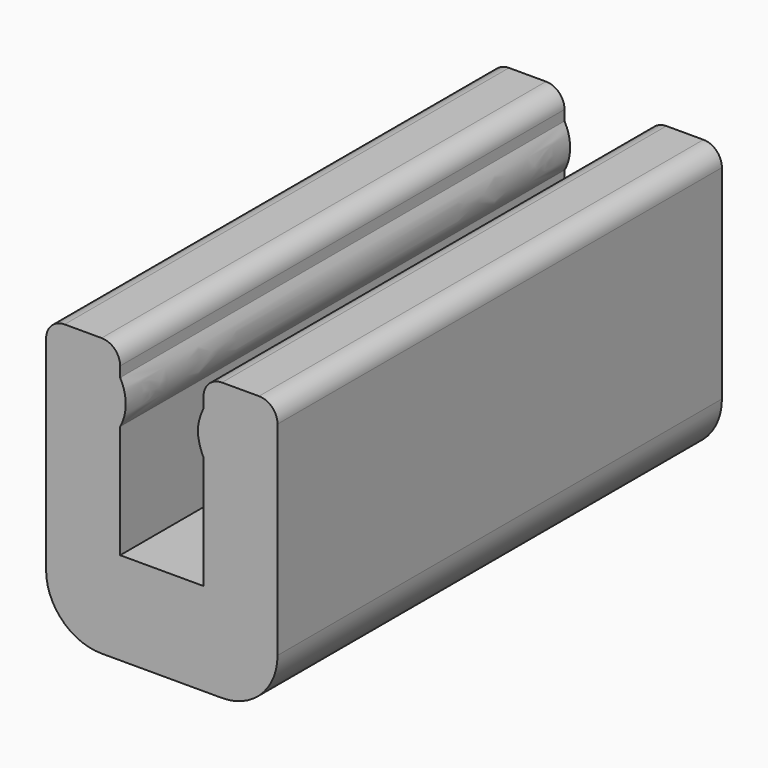
from build123d import *

# Parameters (mm, degrees)
F0_W     = 4.5
F0_H     = 30
F0_W_2   = 4
F1_DEPTH = 5
F2_DEPTH = 10
F3_R     = 3
F4_R     = 1
F6_DEPTH = 30


with BuildPart() as f1:
    # F0 (on Top) → F1 (new body)
    with BuildSketch(Plane.XY):
        with Locations((-4.7856509686, -8.5439818352)):
            Rectangle(F0_W, F0_H)
        with Locations((-9.0356509686, -8.5439818352)):
            Rectangle(F0_W_2, F0_H)
        with Locations((-0.5356509686, -8.5439818352)):
            Rectangle(F0_W_2, F0_H)
    extrude(amount=-F1_DEPTH)

    # F0 (on Top) → F2 (join)
    with BuildSketch(Plane.XY):
        with Locations((-9.0356509686, -8.5439818352)):
            Rectangle(F0_W_2, F0_H)
        with Locations((-0.5356509686, -8.5439818352)):
            Rectangle(F0_W_2, F0_H)
    extrude(amount=F2_DEPTH)

    # F3
    f3_edges = [f1.edges().sort_by_distance(p)[0] for p in [
        (1.464349, -8.543982, -5),
        (-11.035651, -8.543982, -5),
    ]]
    fillet(f3_edges, radius=F3_R)

    # F4
    f4_edges = [f1.edges().sort_by_distance(p)[0] for p in [
        (-7.035651, -8.543982, 10),
        (-11.035651, -8.543982, 10),
        (1.464349, -8.543982, 10),
        (-2.535651, -8.543982, 10),
    ]]
    fillet(f4_edges, radius=F4_R)

    # F5 (on face) → F6 (join)
    with BuildSketch(Plane.XZ.offset(23.5439818352)):
        with BuildLine():
            Line((-2.5356509686, 6.1144679785), (-2.5356509686, 8.4431599826))
            add(Edge.make_bspline(
                [(-2.5356509686, 8.4431599826), (-2.7152575285, 8.0569054131), (-2.9551929536, 7.2933215725), (-2.7169880221, 6.5044440771), (-2.5356509686, 6.1144679785)],
                knots=[0, 0, 0, 0, 0.49760282, 1, 1, 1, 1], degree=3))
        make_face()
        with BuildLine():
            Line((-7.0356509686, 8.4431599826), (-7.0356509686, 6.1144679785))
            add(Edge.make_bspline(
                [(-7.0356509686, 8.4431599826), (-6.8227021242, 8.0569054131), (-6.6496118928, 7.2933215725), (-6.8206503806, 6.5044440771), (-7.0356509686, 6.1144679785)],
                knots=[0, 0, 0, 0, 0.49760282, 1, 1, 1, 1], degree=3))
        make_face()
    extrude(amount=-F6_DEPTH)


solid = f1.part
